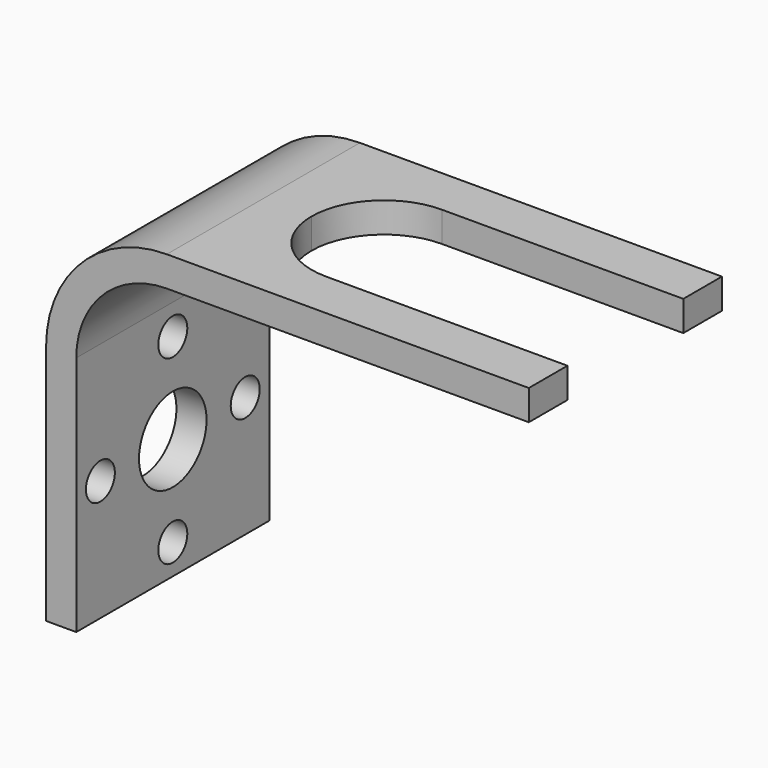
from build123d import *

# Parameters (mm, degrees)
F1_DEPTH = 25.4
F3_DEPTH = 3.175
F4_R     = 4.445
F4_R_2   = 1.905
F5_DEPTH = 3.175


with BuildPart() as f1:
    # F0 (on Front) → F1 (new body)
    with BuildSketch(Plane.XZ):
        with BuildLine():
            Line((0, 25.4), (0, 0))
            Line((0, 0), (3.175, 0))
            Line((3.175, 0), (3.175, 25.4))
            ThreePointArc((3.175, 25.4), (5.964808, 32.135192), (12.7, 34.925))
            Line((12.7, 34.925), (50.8, 34.925))
            Line((50.8, 34.925), (50.8, 38.1))
            Line((50.8, 38.1), (12.7, 38.1))
            ThreePointArc((12.7, 38.1), (3.719744, 34.380256), (0, 25.4))
        make_face()
    extrude(amount=F1_DEPTH)

    # F2 (on face) → F3 (cut, through all)
    with BuildSketch(Plane(origin=(0, 0, 34.925), x_dir=(1, 0, 0), z_dir=(0, 0, -1))):
        with BuildLine():
            Line((50.8, 5.08), (50.8, 20.32))
            Line((50.8, 20.32), (25.4, 20.32))
            ThreePointArc((25.4, 20.32), (20.011846, 18.088154), (17.78, 12.7))
            ThreePointArc((17.78, 12.7), (20.011846, 7.311846), (25.4, 5.08))
            Line((25.4, 5.08), (50.8, 5.08))
        make_face()
    extrude(amount=-F3_DEPTH, mode=Mode.SUBTRACT)

    # F4 (on face) → F5 (cut, through all)
    with BuildSketch(Plane(origin=(0, 0, 0), x_dir=(0, -1, 0), z_dir=(-1, 0, 0))):
        with Locations((12.7, 12.7)):
            Circle(F4_R)
        with Locations((22.225, 12.7)):
            Circle(F4_R_2)
        with Locations((12.7, 3.175)):
            Circle(F4_R_2)
        with Locations((3.175, 12.7)):
            Circle(F4_R_2)
        with Locations((12.7, 22.225)):
            Circle(F4_R_2)
    extrude(amount=-F5_DEPTH, mode=Mode.SUBTRACT)


solid = f1.part
